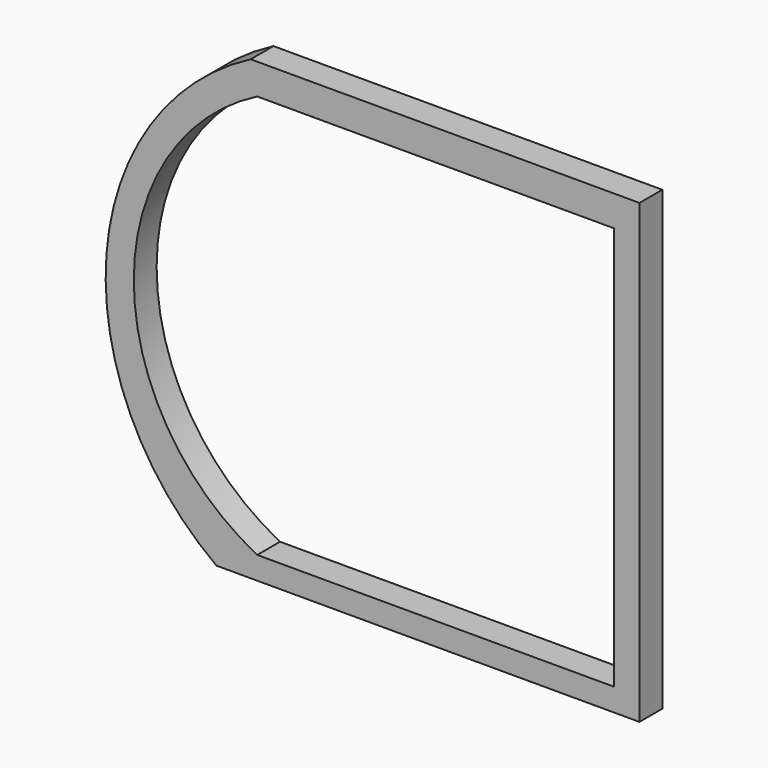
from build123d import *

# Parameters (mm, degrees)
F0_W     = 474.8173340189
F0_H     = 406.4
F1_DEPTH = 25.4
F3_DEPTH = 25.4
F4_W     = 317.5059556961
F4_H     = 358.9637875557
F5_DEPTH = 25.4
F7_DEPTH = 25.4


with BuildPart() as f1:
    # F0 (on Front) → F1 (new body)
    with BuildSketch(Plane.XZ):
        with Locations((-2.3857876658, 9.4393342733)):
            Rectangle(F0_W, F0_H)
        with Locations((-2.3857876658, 9.4393342733)):
            Rectangle(F0_W, F0_H)
    extrude(amount=F1_DEPTH)

    # F2 (on face) → F3 (cut)
    with BuildSketch(Plane.XZ.offset(25.4)):
        with BuildLine():
            ThreePointArc((-239.7944546753, -5.535e-07), (-205.0373357652, 124.3425568152), (-110.841752119, 212.6393342733))
            Line((-110.841752119, 212.6393342733), (-239.7944546753, 212.6393342733))
            Line((-239.7944546753, 212.6393342733), (-239.7944546753, -5.535e-07))
        make_face()
        with BuildLine():
            Line((-239.7944546753, -193.7606657267), (-141.273440215, -193.7606657267))
            ThreePointArc((-141.273440215, -193.7606657267), (-213.7498163066, -108.6848495509), (-239.7944546753, -5.535e-07))
            Line((-239.7944546753, -5.535e-07), (-239.7944546753, -193.7606657267))
        make_face()
    extrude(amount=-F3_DEPTH, mode=Mode.SUBTRACT)

    # F4 (on face) → F5 (cut)
    with BuildSketch(Plane.XZ.offset(25.4)):
        with Locations((53.7397265434, 5.900233984)):
            Rectangle(F4_W, F4_H)
    extrude(amount=-F5_DEPTH, mode=Mode.SUBTRACT)

    # F6 (on face) → F7 (cut)
    with BuildSketch(Plane.XZ.offset(25.4)):
        with BuildLine():
            Line((-105.0132513046, -173.5816597939), (-105.0132513046, 185.3821277618))
            ThreePointArc((-105.0132513046, 185.3821277618), (-214.776070383, 5.900233984), (-105.0132513046, -173.5816597939))
        make_face()
    extrude(amount=-F7_DEPTH, mode=Mode.SUBTRACT)


solid = f1.part
